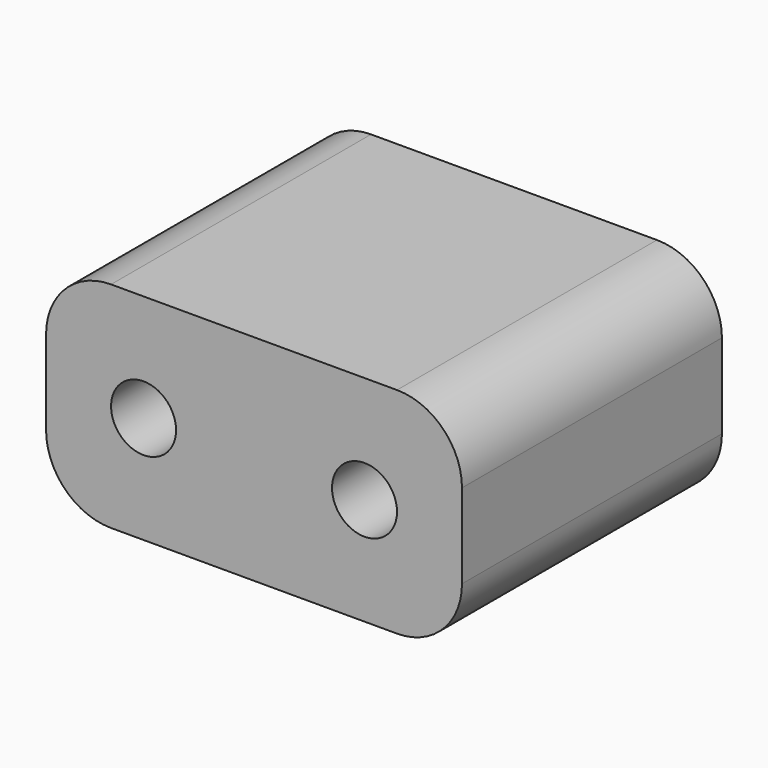
from build123d import *

# Parameters (mm, degrees)
F0_W     = 6.4
F0_H     = 5
F1_DEPTH = 3.3
F2_R     = 1
F3_R     = 0.5
F4_DEPTH = 5.001


with BuildPart() as f1:
    # F0 (on Top) → F1 (new body)
    with BuildSketch(Plane.XY):
        with Locations((3.2, 2.5)):
            Rectangle(F0_W, F0_H)
    extrude(amount=F1_DEPTH)

    # F2
    f2_edges = [f1.edges().sort_by_distance(p)[0] for p in [
        (0, 2.5, 3.3),
        (6.4, 2.5, 3.3),
        (6.4, 2.5, 0),
        (0, 2.5, 0),
    ]]
    fillet(f2_edges, radius=F2_R)

    # F3 (on face) → F4 (cut, through all)
    with BuildSketch(Plane.XZ):
        with Locations((1.5, 1.65)):
            Circle(F3_R)
        with Locations((4.9, 1.65)):
            Circle(F3_R)
    extrude(amount=-F4_DEPTH, mode=Mode.SUBTRACT)


solid = f1.part
